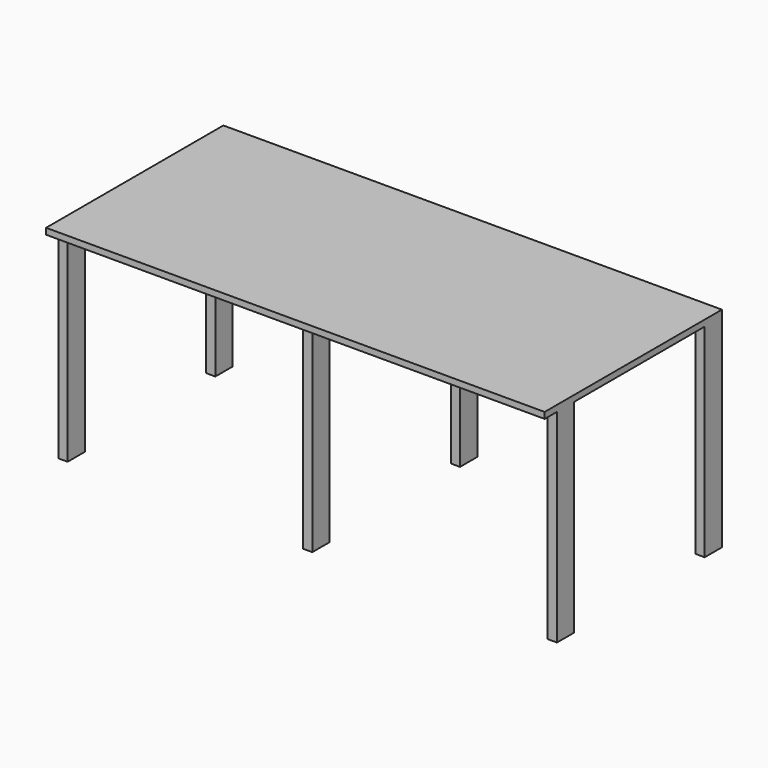
from build123d import *

# Parameters (mm, degrees)
F0_W     = 2057.4
F0_H     = 914.4
F1_DEPTH = 863.6
F2_W     = 63.5
F2_H     = 838.2
F2_W_2   = 673.1
F3_DEPTH = 2057.401
F4_W     = 971.55
F4_H     = 838.2
F5_DEPTH = 850.901


with BuildPart() as f1:
    # F0 (on Top) → F1 (new body)
    with BuildSketch(Plane.XY):
        Rectangle(F0_W, F0_H)
    extrude(amount=-F1_DEPTH)

    # F2 (on face) → F3 (cut, through all)
    with BuildSketch(Plane.YZ.offset(1028.7)):
        with Locations((-425.45, -444.5)):
            Rectangle(F2_W, F2_H)
        with Locations((31.75, -444.5)):
            Rectangle(F2_W_2, F2_H)
    extrude(amount=-F3_DEPTH, mode=Mode.SUBTRACT)

    # F4 (on face) → F5 (cut, through all)
    with BuildSketch(Plane.XZ.offset(393.7)):
        with Locations((-504.825, -444.5)):
            Rectangle(F4_W, F4_H)
        with Locations((504.825, -444.5)):
            Rectangle(F4_W, F4_H)
    extrude(amount=-F5_DEPTH, mode=Mode.SUBTRACT)


solid = f1.part
